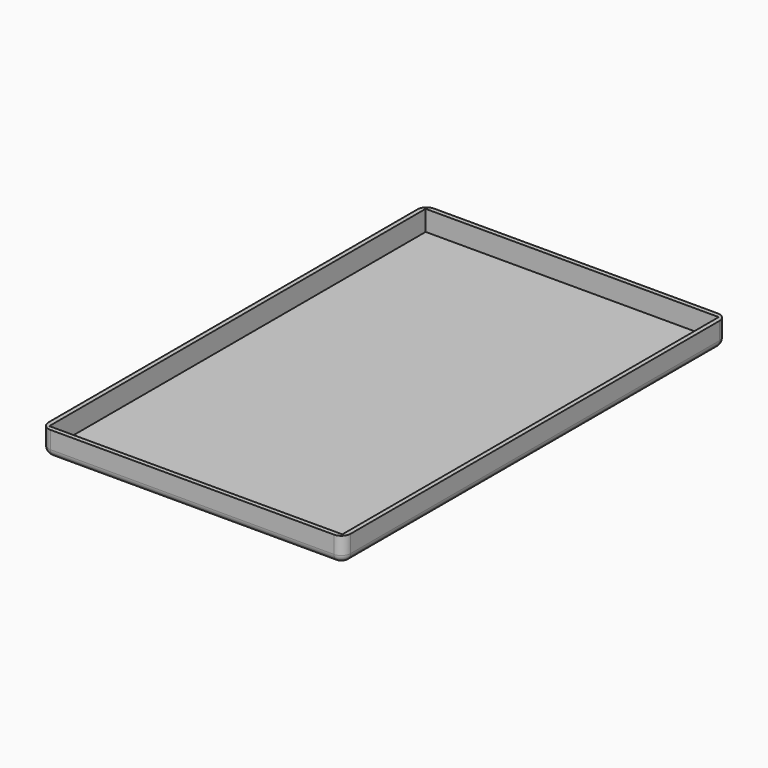
from build123d import *

# Parameters (mm, degrees)
F0_W        = 81.7
F0_H        = 129.7
F0_W_2      = 79.3
F0_H_2      = 127.3
F1_DEPTH    = 5.5
F1_FACE_W   = 81.7
F1_FACE_H   = 129.7
F1_FACE_W_2 = 79.3
F1_FACE_H_2 = 127.3
F2_DEPTH    = 1.2
F3_R        = 2.5
F4_R        = 2


with BuildPart() as f1:
    # F0 (on Top) → F1 (new body)
    with BuildSketch(Plane.XY):
        with Locations((-7.4785080035, 23.4226425927)):
            Rectangle(F0_W, F0_H)
        with Locations((-7.4785080035, 23.4226425927)):
            Rectangle(F0_W_2, F0_H_2, mode=Mode.SUBTRACT)
    extrude(amount=F1_DEPTH)

    # F0 (on Top) + F1_face (on face) → F2 (join)
    with BuildSketch(Plane.XY):
        with Locations((-7.4785080035, 23.4226425927)):
            Rectangle(F0_W_2, F0_H_2)
    with BuildSketch(Plane(origin=(-7.4785080035, 23.4226425927, 0), x_dir=(1, 0, 0), z_dir=(0, 0, -1))):
        Rectangle(F1_FACE_W, F1_FACE_H)
        Rectangle(F1_FACE_W_2, F1_FACE_H_2, mode=Mode.SUBTRACT)
    extrude(amount=-F2_DEPTH, dir=(0, 0, 1))

    # F3
    f3_edges = [f1.edges().sort_by_distance(p)[0] for p in [
        (-48.328508, 88.272643, 2.15),
        (-48.328508, -41.427357, 2.15),
        (33.371492, -41.427357, 2.15),
        (33.371492, 88.272643, 2.15),
    ]]
    fillet(f3_edges, radius=F3_R)

    # F4
    f4_edges = [f1.edges().sort_by_distance(p)[0] for p in [
        (-7.478508, 88.272643, -1.2),
        (-47.596275, 87.54041, -1.2),
        (32.639259, 87.54041, -1.2),
        (-48.328508, 23.422643, -1.2),
        (33.371492, 23.422643, -1.2),
        (-47.596275, -40.695124, -1.2),
        (32.639259, -40.695124, -1.2),
        (-7.478508, -41.427357, -1.2),
    ]]
    fillet(f4_edges, radius=F4_R)


solid = f1.part
